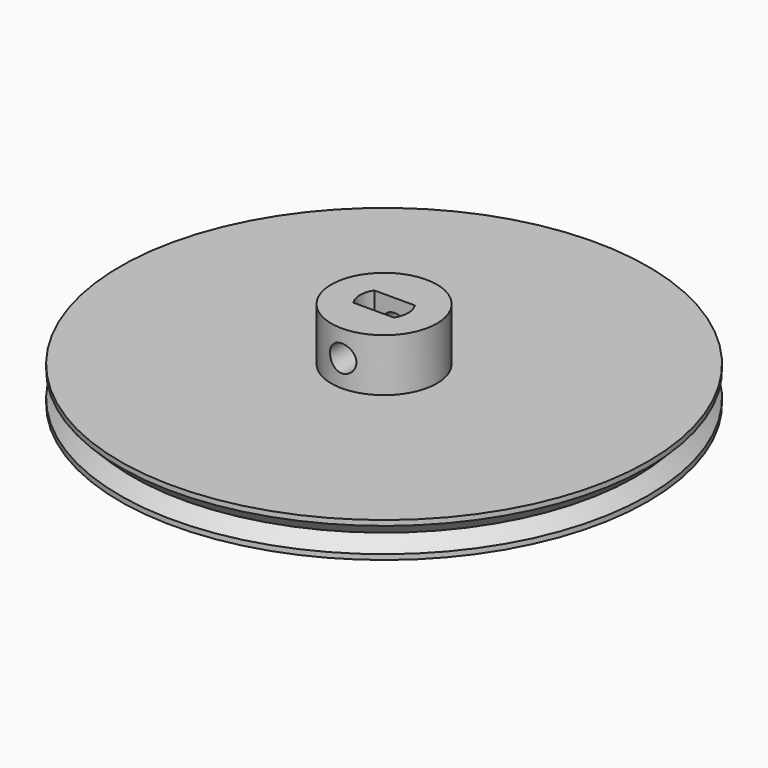
from build123d import *

# Parameters (mm, degrees)
F0_R     = 30
F0_R_2   = 6
F1_DEPTH = 4
F2_DEPTH = 6
F3_R     = 1.5
F4_DEPTH = 12.5
F5_W     = 4.6
F5_H     = 3
F6_DEPTH = 9.4


with BuildPart() as f1:
    # F0 (on Top) → F1 (new body)
    with BuildSketch(Plane.XY):
        Circle(F0_R)
        Circle(F0_R_2, mode=Mode.SUBTRACT)
        Circle(F0_R_2)
    extrude(amount=-F1_DEPTH)

    # F0 (on Top) → F2 (join)
    with BuildSketch(Plane.XY):
        Circle(F0_R_2)
    extrude(amount=F2_DEPTH)

    # F3 (on Front) → F4 (cut, symmetric)
    with BuildSketch(Plane.XZ):
        with Locations((0, 3)):
            Circle(F3_R)
    extrude(amount=F4_DEPTH, both=True, mode=Mode.SUBTRACT)

    # F5 (on face) → F6 (cut)
    with BuildSketch(Plane.XY.offset(6)):
        Rectangle(F5_W, F5_H)
        with BuildLine():
            ThreePointArc((2.3, -1.5), (2.745906, 0), (2.3, 1.5))
            Line((2.3, 1.5), (2.3, -1.5))
        make_face()
        with BuildLine():
            Line((-2.3, -1.5), (-2.3, 1.5))
            ThreePointArc((-2.3, 1.5), (-2.745906, 0), (-2.3, -1.5))
        make_face()
    extrude(amount=-F6_DEPTH, mode=Mode.SUBTRACT)

    # F7 (on Front) → F8 (revolve, cut)
    with BuildSketch(Plane.XZ):
        Polygon((30, -3.414214), (30, -0.585786), (28.585786, -2), align=None)
    revolve(axis=Axis((0, 0, -1.121142), (0, 0, 1)), mode=Mode.SUBTRACT)


solid = f1.part
